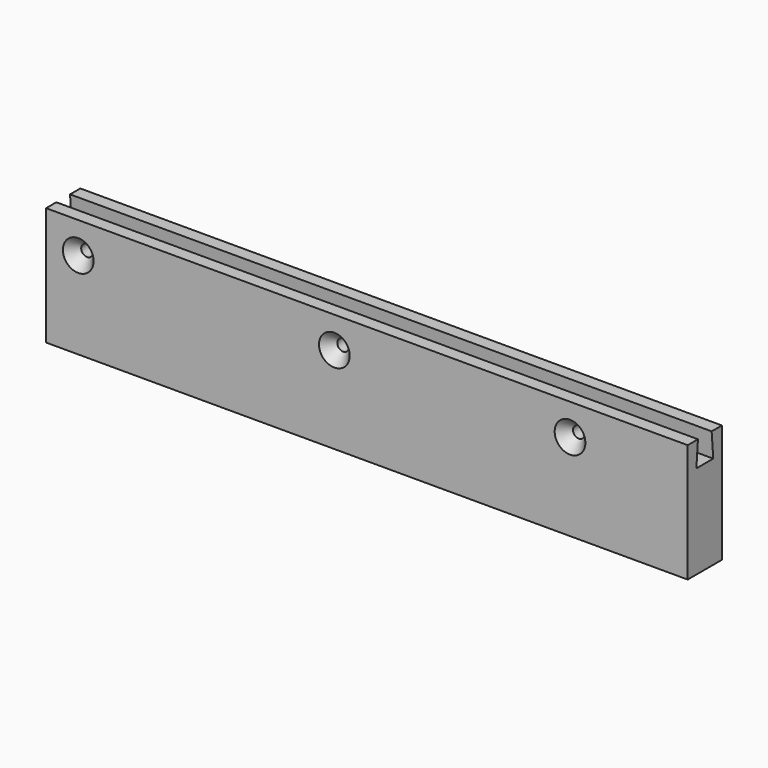
from build123d import *

# Parameters (mm, degrees)
F0_W           = 190.5
F0_H           = 35.1282
F1_DEPTH       = 12.7
F3_DEPTH       = 190.501
F5_D           = 3.4544
F5_CSINK_D     = 9.1186
F5_CSINK_ANGLE = 82
F7_D           = 6.5278
F7_DEPTH       = 16.4846
F7_TIP         = 1.9611489744


with BuildPart() as f1:
    # F0 (on Front) → F1 (new body)
    with BuildSketch(Plane.XZ):
        with Locations((95.25, 17.5641)):
            Rectangle(F0_W, F0_H)
    extrude(amount=F1_DEPTH)

    # F2 (on face) → F3 (cut, through all)
    with BuildSketch(Plane.YZ.offset(190.5)):
        Polygon((-3.81, 35.1282), (-8.89, 35.1282), (-9.4869, 27.7622), (-3.2131, 27.7622), align=None)
    extrude(amount=-F3_DEPTH, mode=Mode.SUBTRACT)

    # F5 (through all)
    with Locations(Plane.XZ.offset(12.7)):
        with Locations((9.5504, 25.8572), (85.5853, 25.8572), (155.5623, 25.8572)):
            CounterSinkHole(F5_D / 2, F5_CSINK_D / 2, counter_sink_angle=F5_CSINK_ANGLE)

    # F7
    with Locations(Plane(origin=(0, 0, 0), x_dir=(1, 0, 0), z_dir=(0, 0, -1))):
        with Locations((25.2984, 6.35), (95.25, 6.35), (165.2016, 6.35)):
            Hole(F7_D / 2, depth=F7_DEPTH)
            with Locations((0, 0, -(F7_DEPTH + F7_TIP / 2))):  # 118° drill point
                Cone(0, F7_D / 2, F7_TIP, mode=Mode.SUBTRACT)


solid = f1.part
